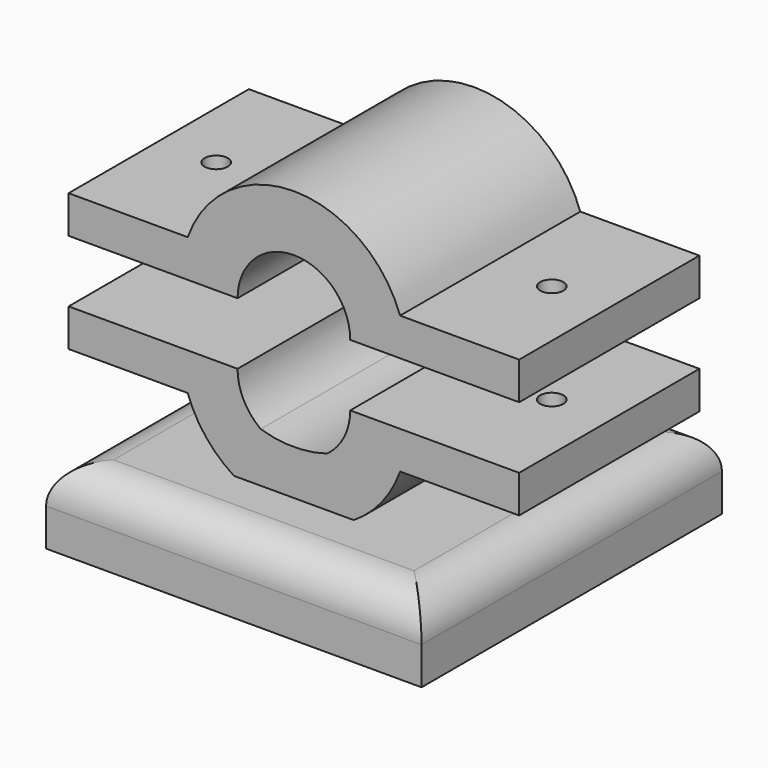
from build123d import *

# Parameters (mm, degrees)
F0_W          = 50
F0_H          = 50
F1_DEPTH      = 10
F2_R          = 5
F4_DEPTH      = 15
F4_DEPTH_BACK = 15
F5_R          = 1.55
F6_DEPTH      = 25


with BuildPart() as f1:
    # F0 (on Top) → F1 (new body)
    with BuildSketch(Plane.XY):
        Rectangle(F0_W, F0_H)
    extrude(amount=F1_DEPTH)

    # F2
    f2_edges = [f1.edges().sort_by_distance(p)[0] for p in [
        (0, -25, 10),
        (-25, 0, 10),
        (25, 0, 10),
        (0, 25, 10),
    ]]
    fillet(f2_edges, radius=F2_R)

    # F3 (on Front) → F4 (join, two sides)
    with BuildSketch(Plane.XZ) as f4_sk:
        with BuildLine():
            ThreePointArc((-7.5, 30.979477), (0, 38.479477), (7.5, 30.979477))
            Line((7.5, 30.979477), (14.142136, 30.979477))
            Line((14.142136, 30.979477), (15, 30.979477))
            Line((15, 30.979477), (30, 30.979477))
            Line((30, 30.979477), (30, 35.979477))
            Line((30, 35.979477), (14.142136, 35.979477))
            ThreePointArc((14.142136, 35.979477), (0, 45.979477), (-14.142136, 35.979477))
            Line((-14.142136, 35.979477), (-30, 35.979477))
            Line((-30, 35.979477), (-30, 30.979477))
            Line((-30, 30.979477), (-15, 30.979477))
            Line((-15, 30.979477), (-14.142136, 30.979477))
            Line((-14.142136, 30.979477), (-7.5, 30.979477))
        make_face()
        with BuildLine():
            Line((-30, 17.708183), (-14.142136, 17.708183))
            ThreePointArc((-14.142136, 17.708183), (0, 7.708183), (14.142136, 17.708183))
            Line((14.142136, 17.708183), (30, 17.708183))
            Line((30, 17.708183), (30, 22.708183))
            Line((30, 22.708183), (15, 22.708183))
            Line((15, 22.708183), (14.142136, 22.708183))
            Line((14.142136, 22.708183), (7.5, 22.708183))
            ThreePointArc((7.5, 22.708183), (6.683448, 19.30502), (4.411596, 16.642886))
            ThreePointArc((4.411596, 16.642886), (0, 15.979477), (-4.411596, 16.642886))
            ThreePointArc((-4.411596, 16.642886), (-6.683448, 19.30502), (-7.5, 22.708183))
            Line((-7.5, 22.708183), (-14.142136, 22.708183))
            Line((-14.142136, 22.708183), (-15, 22.708183))
            Line((-15, 22.708183), (-30, 22.708183))
            Line((-30, 22.708183), (-30, 17.708183))
        make_face()
    extrude(amount=F4_DEPTH)
    extrude(f4_sk.sketch, amount=-F4_DEPTH_BACK)

    # F5 (on face) → F6 (cut)
    with BuildSketch(Plane.XY.offset(35.979477)):
        with Locations((-22.34684, 0)):
            Circle(F5_R)
        with Locations((22.344638, 0)):
            Circle(F5_R)
    extrude(amount=-F6_DEPTH, mode=Mode.SUBTRACT)


solid = f1.part
